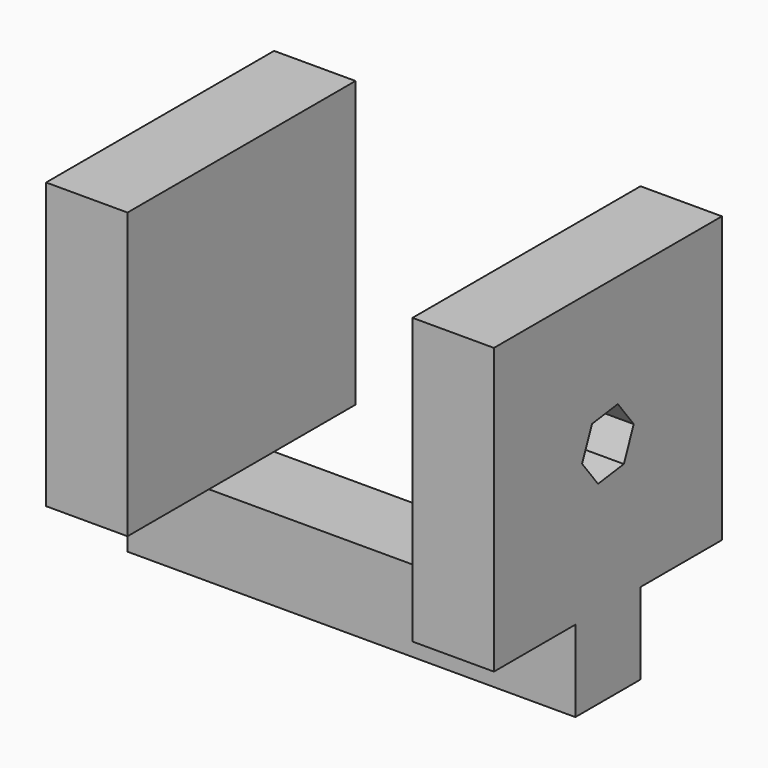
from build123d import *

# Parameters (mm, degrees)
F1_DEPTH  = 10
F2_W      = 12.5
F2_H      = 35
F3_DEPTH  = 10
F4_W      = 12.5
F4_H      = 35
F5_DEPTH  = 10
F6_R      = 3.25
F7_DEPTH  = 10
F9_R      = 3.25
F10_DEPTH = 5


with BuildPart() as f1:
    # F0 (on Front) → F1 (new body)
    with BuildSketch(Plane.XZ):
        Polygon((-12.7756818049, 38.8276573637), (-22.7756818049, 38.8276573637), (-22.7756818049, -6.1723426363), (32.2243181951, -6.1723426363), (32.2243181951, 38.8276573637), (22.2243181951, 38.8276573637), (22.2243181951, 3.8276573637), (-12.7756818049, 3.8276573637), align=None)
    extrude(amount=F1_DEPTH)

    # F2 (on face) → F3 (join)
    with BuildSketch(Plane.YZ.offset(32.2243181951)):
        with Locations((-16.25, 21.3276573637)):
            Rectangle(F2_W, F2_H)
        with Locations((6.25, 21.3276573637)):
            Rectangle(F2_W, F2_H)
    extrude(amount=-F3_DEPTH)

    # F4 (on face) → F5 (join)
    with BuildSketch(Plane(origin=(-22.7756818049, 0, 0), x_dir=(0, -1, 0), z_dir=(-1, 0, 0))):
        with Locations((-6.25, 21.3276573637)):
            Rectangle(F4_W, F4_H)
        with Locations((16.25, 21.3276573637)):
            Rectangle(F4_W, F4_H)
    extrude(amount=-F5_DEPTH)

    # F6 (on face) → F7 (cut)
    with BuildSketch(Plane.YZ.offset(32.2243181951)):
        with Locations((-5, 21.3276573637)):
            Circle(F6_R)
    extrude(amount=-F7_DEPTH, mode=Mode.SUBTRACT)

    # F9 (on face) → F10 (cut)
    with BuildSketch(Plane.YZ.offset(32.2243181951)):
        Polygon((-1.0361268053, 21.8640427628), (-3.4825867845, 25.0286649472), (-7.4464599792, 24.4922795481), (-8.9638731947, 20.7912719646), (-6.5174132155, 17.6266497802), (-2.5535400208, 18.1630351792), align=None)
        with Locations((-5, 21.3276573637)):
            Circle(F9_R, mode=Mode.SUBTRACT)
    extrude(amount=-F10_DEPTH, mode=Mode.SUBTRACT)


solid = f1.part
